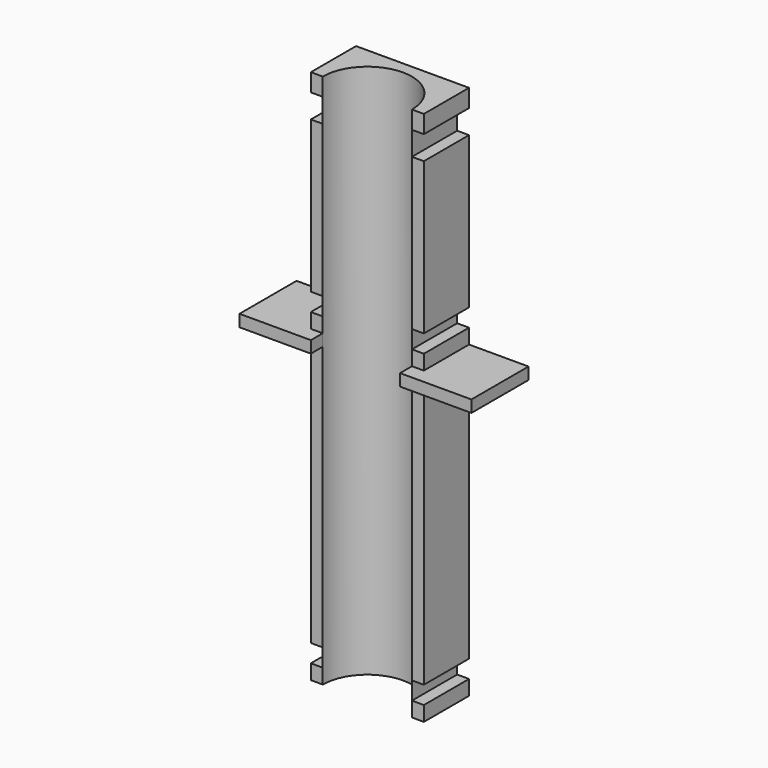
from build123d import *

# Parameters (mm, degrees)
F1_DEPTH = 60
F3_W     = 12
F3_H     = 12
F4_DEPTH = 2
F5_DEPTH = 30
F6_W     = 2
F6_H     = 3
F6_H_2   = 4
F7_DEPTH = 9.501


with BuildPart() as f1:
    # F0 (on Top) → F1 (new body)
    with BuildSketch(Plane.XY):
        with BuildLine():
            Line((-9.5, 0), (-7.5, 0))
            ThreePointArc((-7.5, 0), (0, 7.5), (7.5, 0))
            Line((7.5, 0), (9.5, 0))
            Line((9.5, 0), (9.5, 9.5))
            Line((9.5, 9.5), (-9.5, 9.5))
            Line((-9.5, 9.5), (-9.5, 0))
        make_face()
    extrude(amount=-F1_DEPTH)

    # F3 (on offset) → F4 (join)
    with BuildSketch(Plane.XY.offset(-10)):
        with Locations((-13.5, 3.5)):
            Rectangle(F3_W, F3_H)
        with Locations((13.5, 3.5)):
            Rectangle(F3_W, F3_H)
    extrude(amount=F4_DEPTH)

    # F1_face (on face) → F5 (join)
    with BuildSketch(Plane(origin=(0, 6.25253, 0), x_dir=(1, 0, 0), z_dir=(0, 0, 1))):
        with BuildLine():
            Line((-9.5, -6.25253), (-7.5, -6.25253))
            ThreePointArc((-7.5, -6.25253), (0, 1.24747), (7.5, -6.25253))
            Line((7.5, -6.25253), (9.5, -6.25253))
            Line((9.5, -6.25253), (9.5, 3.24747))
            Line((9.5, 3.24747), (-9.5, 3.24747))
            Line((-9.5, 3.24747), (-9.5, -6.25253))
        make_face()
    extrude(amount=F5_DEPTH)

    # F6 (on face) → F7 (cut, through all)
    with BuildSketch(Plane.XZ):
        with Locations((-8.5, -4)):
            Rectangle(F6_W, F6_H)
        with Locations((-8.5, -56)):
            Rectangle(F6_W, F6_H)
        with Locations((8.5, -4)):
            Rectangle(F6_W, F6_H)
        with Locations((8.5, -56)):
            Rectangle(F6_W, F6_H)
        with Locations((-8.5, 25)):
            Rectangle(F6_W, F6_H_2)
        with Locations((8.5, 25)):
            Rectangle(F6_W, F6_H_2)
    extrude(amount=-F7_DEPTH, mode=Mode.SUBTRACT)


solid = f1.part
